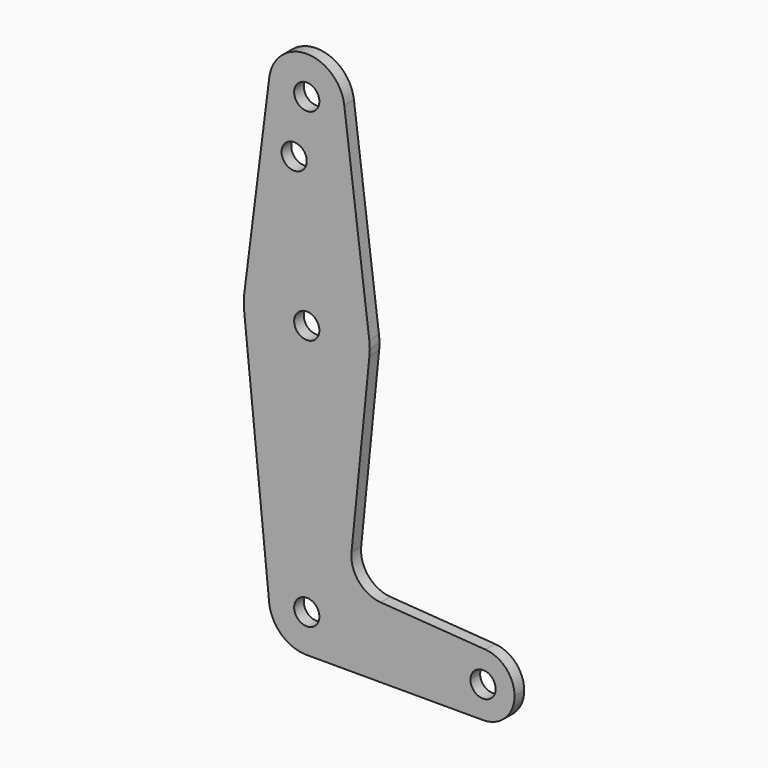
from build123d import *

# Parameters (mm, degrees)
F0_R     = 3.175
F0_R_2   = 3.175704
F1_DEPTH = 3.048


with BuildPart() as f1:
    # F0 (on Front) → F1 (new body)
    with BuildSketch(Plane.XZ):
        with BuildLine():
            ThreePointArc((-9.450293, 51.990625), (-0.596483, 41.293695), (9.525, 50.8))
            ThreePointArc((9.525, 50.8), (9.506305, 51.396483), (9.450293, 51.990625))
            ThreePointArc((9.450293, 51.990625), (0, 60.325), (-9.450293, 51.990625))
        make_face()
        with Locations((0, 50.8)):
            Circle(F0_R, mode=Mode.SUBTRACT)
        with BuildLine():
            ThreePointArc((9.450293, 51.990625), (9.506305, 51.396483), (9.525, 50.8))
            ThreePointArc((9.525, 50.8), (-0.596483, 41.293695), (-9.450293, 51.990625))
            Line((-9.450293, 51.990625), (-15.750488, 1.984375))
            ThreePointArc((-15.750488, 1.984375), (0, 15.875), (15.750488, 1.984375))
            Line((15.750488, 1.984375), (9.450293, 51.990625))
        make_face()
        with Locations((-3.175, 36.5252)):
            Circle(F0_R_2, mode=Mode.SUBTRACT)
        with BuildLine():
            ThreePointArc((15.875, 0), (15.843841, 0.994139), (15.750488, 1.984375))
            ThreePointArc((15.750488, 1.984375), (0, 15.875), (-15.750488, 1.984375))
            ThreePointArc((-15.750488, 1.984375), (-15.873744, 0.199705), (-15.795426, -1.5875))
            ThreePointArc((-15.795426, -1.5875), (0, -15.875), (15.795426, -1.5875))
            ThreePointArc((15.795426, -1.5875), (15.855094, -0.794747), (15.875, 0))
        make_face()
        Circle(F0_R, mode=Mode.SUBTRACT)
        with BuildLine():
            ThreePointArc((15.795426, -1.5875), (0, -15.875), (-15.795426, -1.5875))
            Line((-15.795426, -1.5875), (-9.477255, -64.4525))
            ThreePointArc((-9.477255, -64.4525), (-0.476848, -53.986944), (9.525, -63.5))
            ThreePointArc((9.525, -63.5), (9.523481, -63.670116), (9.518923, -63.840179))
            Line((9.518923, -63.840179), (36.489207, -64.804018))
            ThreePointArc((36.489207, -64.804018), (39.116046, -59.183726), (44.98398, -57.169945))
            Line((44.98398, -57.169945), (18.621393, -55.297567))
            ThreePointArc((18.621393, -55.297567), (13.103275, -52.488163), (11.274281, -46.572323))
            Line((11.274281, -46.572323), (15.795426, -1.5875))
        make_face()
        with BuildLine():
            ThreePointArc((3.175, -63.5), (-3.174494, -63.443295), (3.172974, -63.613393))
            ThreePointArc((3.172974, -63.613393), (3.174494, -63.556705), (3.175, -63.5))
        make_face()
        with BuildLine():
            ThreePointArc((9.525, -63.5), (-0.476848, -53.986944), (-9.477255, -64.4525))
            ThreePointArc((-9.477255, -64.4525), (-6.389564, -70.563929), (0, -73.025))
            ThreePointArc((0, -73.025), (6.613827, -70.354408), (9.518923, -63.840179))
            ThreePointArc((9.518923, -63.840179), (9.523481, -63.670116), (9.525, -63.5))
        make_face()
        with BuildLine():
            ThreePointArc((3.175, -63.5), (3.174494, -63.556705), (3.172974, -63.613393))
            ThreePointArc((3.172974, -63.613393), (-3.174494, -63.443295), (3.175, -63.5))
        make_face(mode=Mode.SUBTRACT)
        with BuildLine():
            ThreePointArc((9.518923, -63.840179), (6.613827, -70.354408), (0, -73.025))
            Line((0, -73.025), (44.421643, -73.025))
            ThreePointArc((44.421643, -73.025), (38.709636, -70.599023), (36.489207, -64.804018))
            Line((36.489207, -64.804018), (9.518923, -63.840179))
        make_face()
        with BuildLine():
            ThreePointArc((47.596643, -65.0875), (44.478348, -61.913006), (41.248668, -64.974107))
            ThreePointArc((41.248668, -64.974107), (44.364937, -68.261994), (47.596643, -65.0875))
        make_face()
        with BuildLine():
            ThreePointArc((36.489207, -64.804018), (38.709636, -70.599023), (44.421643, -73.025))
            ThreePointArc((44.421643, -73.025), (50.034303, -70.70016), (52.359143, -65.0875))
            ThreePointArc((52.359143, -65.0875), (50.229717, -59.677308), (44.98398, -57.169945))
            ThreePointArc((44.98398, -57.169945), (39.116046, -59.183726), (36.489207, -64.804018))
        make_face()
        with BuildLine():
            ThreePointArc((47.596643, -65.0875), (44.364937, -68.261994), (41.248668, -64.974107))
            ThreePointArc((41.248668, -64.974107), (44.478348, -61.913006), (47.596643, -65.0875))
        make_face(mode=Mode.SUBTRACT)
    extrude(amount=F1_DEPTH)


solid = f1.part
